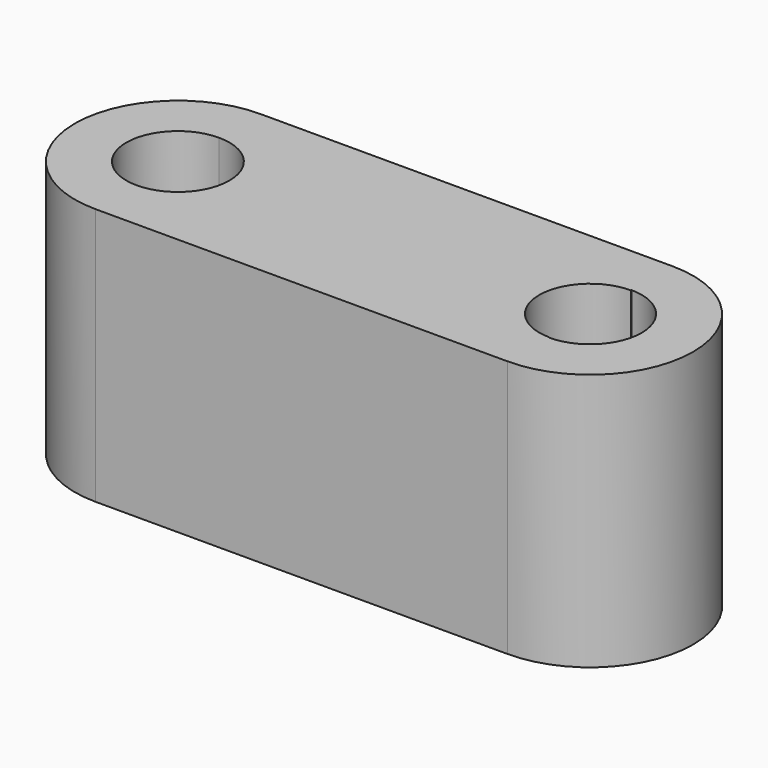
from build123d import *

# Parameters (mm, degrees)
F1_DEPTH = 25
F2_R     = 10
F2_R_2   = 5
F3_DEPTH = 25
F4_R     = 4.9411574471
F5_DEPTH = 25.001


with BuildPart() as f1:
    # F0 (on Top) → F1 (new body)
    with BuildSketch(Plane.XY):
        with BuildLine():
            Line((-20, -10), (20, -10))
            Line((20, -10), (20, 10))
            Line((20, 10), (-20, 10))
            ThreePointArc((-20, 10), (-12.9289321881, 7.0710678119), (-10, 0))
            ThreePointArc((-10, 0), (-12.9289321881, -7.0710678119), (-20, -10))
        make_face()
        with BuildLine():
            ThreePointArc((-20, 10), (-30, 0), (-20, -10))
            Line((-20, -10), (-20, -5))
            ThreePointArc((-20, -5), (-25, 0), (-20, 5))
            Line((-20, 5), (-20, 10))
        make_face()
        with BuildLine():
            Line((-20, -5), (-20, -10))
            ThreePointArc((-20, -10), (-12.9289321881, -7.0710678119), (-10, 0))
            ThreePointArc((-10, 0), (-12.9289321881, 7.0710678119), (-20, 10))
            Line((-20, 10), (-20, 5))
            ThreePointArc((-20, 5), (-16.4644660941, 3.5355339059), (-15, 0))
            ThreePointArc((-15, 0), (-16.4644660941, -3.5355339059), (-20, -5))
        make_face()
    extrude(amount=F1_DEPTH)

    # F2 (on face) → F3 (join)
    with BuildSketch(Plane.XY.offset(25)):
        with Locations((20, 0)):
            Circle(F2_R)
        with Locations((20, 0)):
            Circle(F2_R_2, mode=Mode.SUBTRACT)
    extrude(amount=-F3_DEPTH)

    # F4 (on face) → F5 (cut, through all)
    with BuildSketch(Plane.XY.offset(25)):
        with Locations((20, 0)):
            Circle(F4_R)
    extrude(amount=-F5_DEPTH, mode=Mode.SUBTRACT)


solid = f1.part
